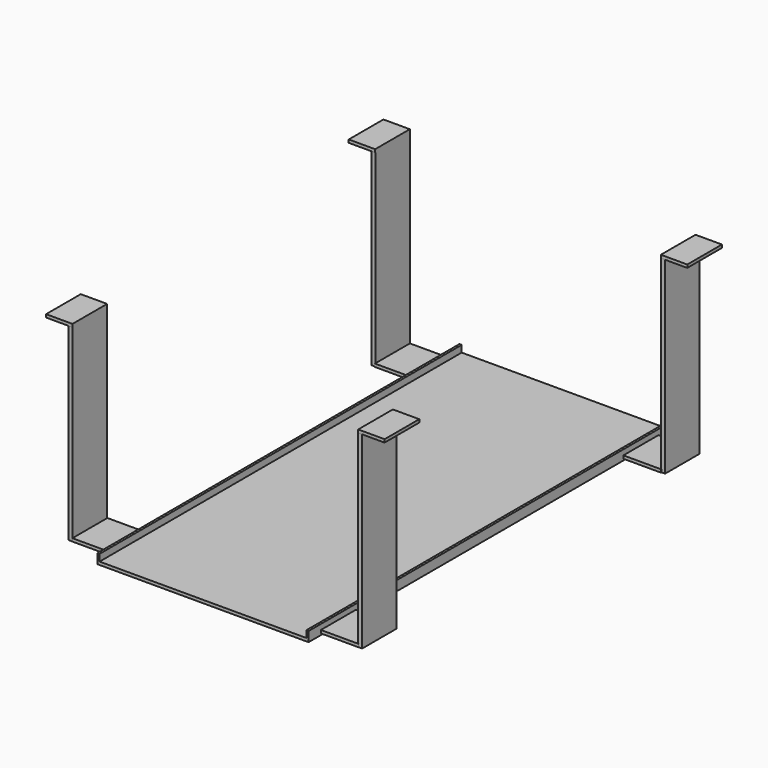
from build123d import *

# Parameters (mm, degrees)
F0_W     = 280
F0_H     = 600
F1_DEPTH = 2
F2_W     = 3
F2_H     = 600
F3_DEPTH = 9
F4_W     = 50
F4_H     = 57.932376
F5_DEPTH = 4
F7_DEPTH = 250
F8_W     = 35
F8_H     = 57.431721
F9_DEPTH = 4


with BuildPart() as f1:
    # F0 (on Top) → F1 (new body, symmetric)
    with BuildSketch(Plane.XY):
        Rectangle(F0_W, F0_H)
    extrude(amount=F1_DEPTH, both=True)

    # F2 (on face) → F3 (join)
    with BuildSketch(Plane.XY.offset(2)):
        with Locations((-138.5, 0)):
            Rectangle(F2_W, F2_H)
        with Locations((138.5, 0)):
            Rectangle(F2_W, F2_H)
    extrude(amount=F3_DEPTH)

    # F4 (on Top) → F5 (join)
    with BuildSketch(Plane.XY):
        with Locations((-164.812601, 250.6136)):
            Rectangle(F4_W, F4_H)
        with Locations((164.812601, 250.6136)):
            Rectangle(F4_W, F4_H)
        with Locations((-164.812601, -250.6136)):
            Rectangle(F4_W, F4_H)
        with Locations((164.812601, -250.6136)):
            Rectangle(F4_W, F4_H)
    extrude(amount=F5_DEPTH)

    # F6 (on Top) → F7 (join)
    with BuildSketch(Plane.XY):
        Polygon((-189.361796, 222.509515), (-189.361796, 279.471008), (-194.60392, 279.439882), (-194.60392, 222.509515), align=None)
        Polygon((194.60392, 222.509515), (194.60392, 279.439882), (189.361796, 279.471008), (189.361796, 222.509515), align=None)
        Polygon((194.60392, -222.509515), (189.361796, -222.509515), (189.361796, -279.471008), (194.60392, -279.439882), align=None)
        Polygon((-194.60392, -222.509515), (-194.60392, -279.439882), (-189.361796, -279.471008), (-189.361796, -222.509515), align=None)
    extrude(amount=F7_DEPTH)

    # F8 (on face) → F9 (join)
    with BuildSketch(Plane.XY.offset(250)):
        with Locations((-206.861796, 250.755147)):
            Rectangle(F8_W, F8_H)
        with Locations((206.861796, 250.755147)):
            Rectangle(F8_W, F8_H)
        with Locations((206.861796, -250.755147)):
            Rectangle(F8_W, F8_H)
        with Locations((-206.861796, -250.755147)):
            Rectangle(F8_W, F8_H)
    extrude(amount=F9_DEPTH)


solid = f1.part
